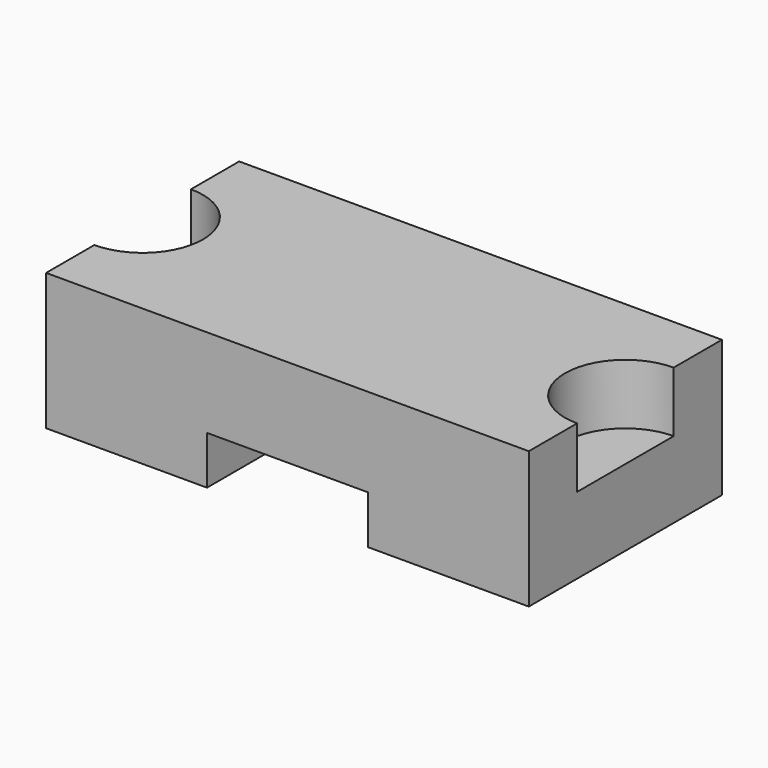
from build123d import *

# Parameters (mm, degrees)
F1_DEPTH = 60
F3_DEPTH = 15


with BuildPart() as f1:
    # F0 (on Front) → F1 (new body)
    with BuildSketch(Plane.XZ):
        Polygon((60, 17), (-60, 17), (-60, -17), (-20, -17), (-20, -5), (20, -5), (20, -17), (60, -17), align=None)
    extrude(amount=F1_DEPTH)

    # F2 (on face) → F3 (cut)
    with BuildSketch(Plane.XY.offset(17)):
        with BuildLine():
            ThreePointArc((-60, -45), (-45, -30), (-60, -15))
            Line((-60, -15), (-60, -45))
        make_face()
        with BuildLine():
            Line((60, -45), (60, -15))
            ThreePointArc((60, -15), (45, -30), (60, -45))
        make_face()
    extrude(amount=-F3_DEPTH, mode=Mode.SUBTRACT)


solid = f1.part
